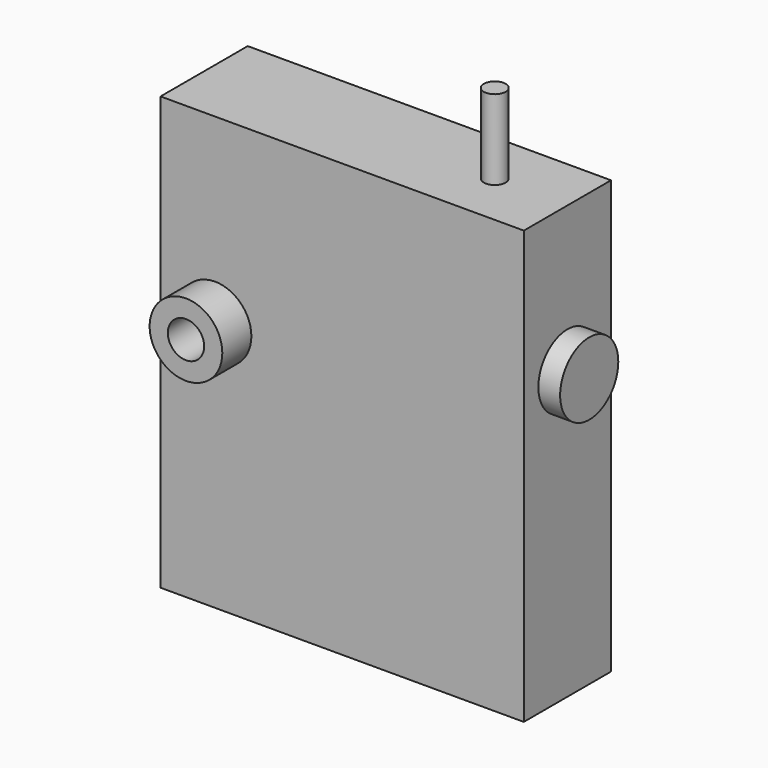
from build123d import *

# Parameters (mm, degrees)
F0_W     = 100
F0_H     = 119.065711
F1_DEPTH = 15
F2_R     = 10
F3_DEPTH = 10
F4_R     = 10
F5_DEPTH = 6
F6_R     = 3
F7_DEPTH = 22
F8_R     = 5
F9_DEPTH = 40.001


with BuildPart() as f1:
    # F0 (on Front) → F1 (new body, symmetric)
    with BuildSketch(Plane.XZ):
        with Locations((0, -3.62726)):
            Rectangle(F0_W, F0_H)
    extrude(amount=F1_DEPTH, both=True)

    # F2 (on face) → F3 (join)
    with BuildSketch(Plane.XZ.offset(15)):
        with Locations((-35, 5.905595)):
            Circle(F2_R)
    extrude(amount=F3_DEPTH)

    # F4 (on face) → F5 (join)
    with BuildSketch(Plane.YZ.offset(50)):
        with Locations((0, 15.905595)):
            Circle(F4_R)
    extrude(amount=F5_DEPTH)

    # F6 (on face) → F7 (join)
    with BuildSketch(Plane.XY.offset(55.905595)):
        with Locations((30, 0)):
            Circle(F6_R)
    extrude(amount=F7_DEPTH)

    # F8 (on face) → F9 (cut, through all)
    with BuildSketch(Plane.XZ.offset(25)):
        with Locations((-35, 5.905595)):
            Circle(F8_R)
    extrude(amount=-F9_DEPTH, mode=Mode.SUBTRACT)


solid = f1.part
